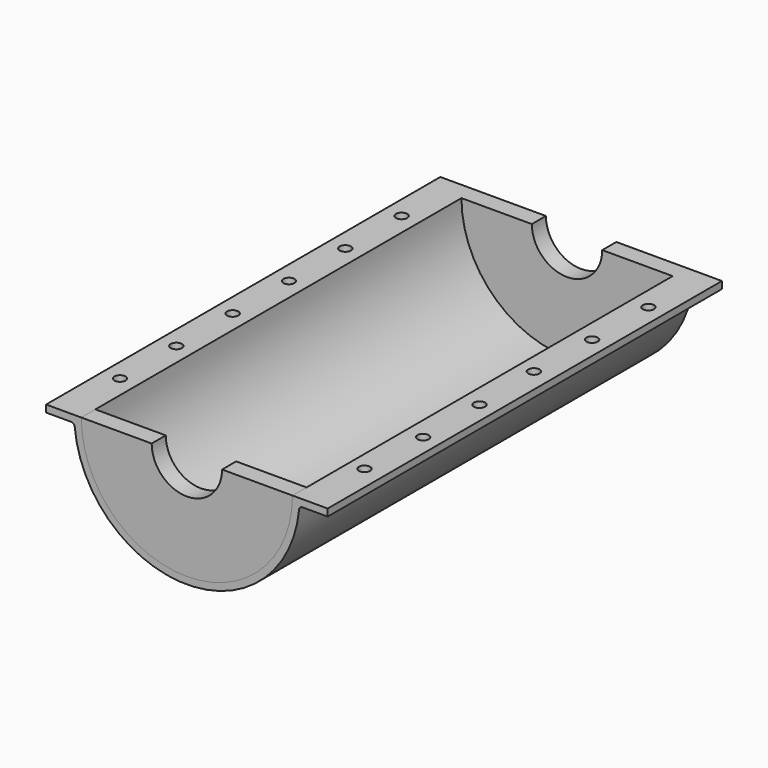
from build123d import *

# Parameters (mm, degrees)
F1_DEPTH = 700
F2_DEPTH = 25
F4_DEPTH = 25
F7_D     = 16
F7_DEPTH = 20
F8_R     = 5


with BuildPart() as f1:
    # F0 (on Front) → F1 (new body)
    with BuildSketch(Plane.XZ):
        with BuildLine():
            ThreePointArc((150, 0), (0, -150), (-150, 0))
            Line((-150, 0), (-200, 0))
            Line((-200, 0), (-200, -10.10368))
            Line((-200, -10.10368), (-159.680668, -10.10368))
            ThreePointArc((-159.680668, -10.10368), (0, -160), (159.680668, -10.10368))
            Line((159.680668, -10.10368), (200, -10.10368))
            Line((200, -10.10368), (200, 0))
            Line((200, 0), (150, 0))
        make_face()
    extrude(amount=F1_DEPTH)

    # F0 (on Front) → F2 (join)
    with BuildSketch(Plane.XZ):
        with BuildLine():
            Line((-50, 0), (-150, 0))
            ThreePointArc((-150, 0), (0, -150), (150, 0))
            Line((150, 0), (50, 0))
            ThreePointArc((50, 0), (0, -50), (-50, 0))
        make_face()
        with BuildLine():
            ThreePointArc((150, 0), (0, -150), (-150, 0))
            Line((-150, 0), (-200, 0))
            Line((-200, 0), (-200, -10.10368))
            Line((-200, -10.10368), (-159.680668, -10.10368))
            ThreePointArc((-159.680668, -10.10368), (0, -160), (159.680668, -10.10368))
            Line((159.680668, -10.10368), (200, -10.10368))
            Line((200, -10.10368), (200, 0))
            Line((200, 0), (150, 0))
        make_face()
    extrude(amount=F2_DEPTH)

    # F7
    with Locations(Plane.XY):
        with Locations((-175, -100), (175.611329, -100), (175.611329, -200), (-175, -200), (-175, -300), (172.962989, -300), (175.611329, -400), (-175, -400), (175.611329, -500), (-175, -500), (-175, -600), (172.300905, -600)):
            Hole(F7_D / 2, depth=F7_DEPTH)

    # F8
    f8_edges = [f1.edges().sort_by_distance(p)[0] for p in [
        (159.680668, -350, -10.10368),
        (-159.680668, -350, -10.10368),
    ]]
    fillet(f8_edges, radius=F8_R)


with BuildPart() as f4:
    # F3 (on face) → F4 (new body)
    with BuildSketch(Plane.XZ.offset(700)):
        with BuildLine():
            ThreePointArc((50, 0), (0, -50), (-50, 0))
            Line((-50, 0), (-150, 0))
            ThreePointArc((-150, 0), (0, -150), (150, 0))
            Line((150, 0), (50, 0))
        make_face()
    extrude(amount=-F4_DEPTH)


solid = Compound([f1.part, f4.part])
